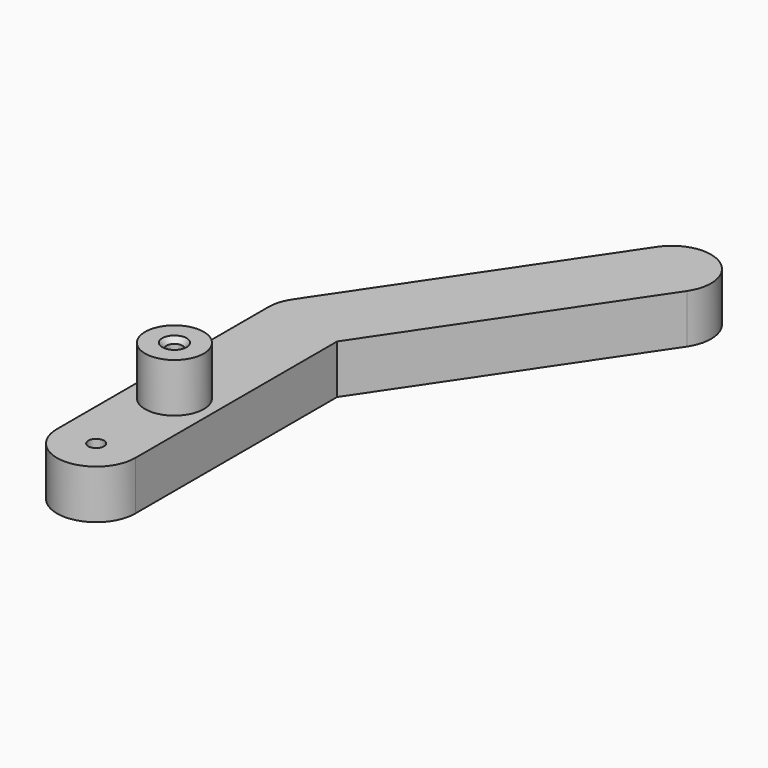
from build123d import *

# Parameters (mm, degrees)
F1_DEPTH       = 6.35
F2_R           = 3.81
F3_DEPTH       = 6.35
F5_D           = 2.032
F5_CSINK_D     = 3.175
F5_CSINK_ANGLE = 82
F7_D           = 2.032


with BuildPart() as f1:
    # F0 (on Top) → F1 (new body)
    with BuildSketch(Plane.XY):
        with BuildLine():
            ThreePointArc((-5.08, 12.7), (-3.5921024484, 9.1078975516), (0, 7.62))
            Line((0, 7.62), (0, 12.7))
            Line((0, 12.7), (0, 17.78))
            ThreePointArc((0, 17.78), (-3.5921024484, 16.2921024484), (-5.08, 12.7))
        make_face()
        with BuildLine():
            Line((0, 12.7), (0, 7.62))
            ThreePointArc((0, 7.62), (3.5921024484, 9.1078975516), (5.08, 12.7))
            ThreePointArc((5.08, 12.7), (3.5921024484, 16.2921024484), (0, 17.78))
            Line((0, 17.78), (0, 12.7))
        make_face()
        with BuildLine():
            ThreePointArc((5.08, 12.7), (3.5921024484, 9.1078975516), (0, 7.62))
            ThreePointArc((0, 7.62), (-3.5921024484, 9.1078975516), (-5.08, 12.7))
            Line((-5.08, 12.7), (-5.08, 0))
            ThreePointArc((-5.08, 0), (0, -5.08), (5.08, 0))
            Line((5.08, 0), (5.08, 12.7))
        make_face()
        with BuildLine():
            ThreePointArc((0, 17.78), (3.5921024484, 16.2921024484), (5.08, 12.7))
            Line((5.08, 12.7), (5.08, 32.7368881382))
            Line((5.08, 32.7368881382), (4.2115108686, 31.4493000504))
            ThreePointArc((4.2115108686, 31.4493000504), (2.384915539, 29.8046262283), (0, 29.21))
            Line((0, 29.21), (0, 17.78))
        make_face()
        with BuildLine():
            Line((-5.08, 34.29), (-5.08, 12.7))
            ThreePointArc((-5.08, 12.7), (-3.5921024484, 16.2921024484), (0, 17.78))
            Line((0, 17.78), (0, 29.21))
            ThreePointArc((0, 29.21), (-3.5921024484, 30.6978975516), (-5.08, 34.29))
        make_face()
        with BuildLine():
            Line((4.2115108686, 31.4493000504), (5.08, 32.7368881382))
            Line((5.08, 32.7368881382), (5.08, 34.29))
            ThreePointArc((5.08, 34.29), (4.4853737717, 36.674915539), (2.8406999496, 38.5015108686))
            Line((2.8406999496, 38.5015108686), (0, 34.29))
            Line((0, 34.29), (0, 29.21))
            ThreePointArc((0, 29.21), (2.384915539, 29.8046262283), (4.2115108686, 31.4493000504))
        make_face()
        with BuildLine():
            Line((5.08, 34.29), (5.08, 32.7368881382))
            Line((5.08, 32.7368881382), (25.8370032919, 63.5104110421))
            ThreePointArc((25.8370032919, 63.5104110421), (24.466192373, 70.5626218603), (17.4139815548, 69.1918109413))
            Line((17.4139815548, 69.1918109413), (-4.2115108686, 37.1306999496))
            ThreePointArc((-4.2115108686, 37.1306999496), (-0.9693096965, 39.2766660919), (2.8406999496, 38.5015108686))
            ThreePointArc((2.8406999496, 38.5015108686), (4.4853737717, 36.674915539), (5.08, 34.29))
        make_face()
        with BuildLine():
            ThreePointArc((-4.2115108686, 37.1306999496), (-4.8580281603, 35.77524826), (-5.08, 34.29))
            ThreePointArc((-5.08, 34.29), (-3.5921024484, 30.6978975516), (0, 29.21))
            Line((0, 29.21), (0, 34.29))
            Line((0, 34.29), (2.8406999496, 38.5015108686))
            ThreePointArc((2.8406999496, 38.5015108686), (-0.9693096965, 39.2766660919), (-4.2115108686, 37.1306999496))
        make_face()
    extrude(amount=F1_DEPTH)

    # F2 (on face) → F3 (join)
    with BuildSketch(Plane.XY.offset(6.35)):
        with Locations((0, 12.7)):
            Circle(F2_R)
    extrude(amount=F3_DEPTH)

    # F5 (through all)
    with Locations(Plane.XY.offset(12.7)):
        with Locations((0, 12.7)):
            CounterSinkHole(F5_D / 2, F5_CSINK_D / 2, counter_sink_angle=F5_CSINK_ANGLE)

    # F7 (through all)
    with Locations(Plane.XY.offset(6.35)):
        with Locations((0, 0)):
            Hole(F7_D / 2)


solid = f1.part
